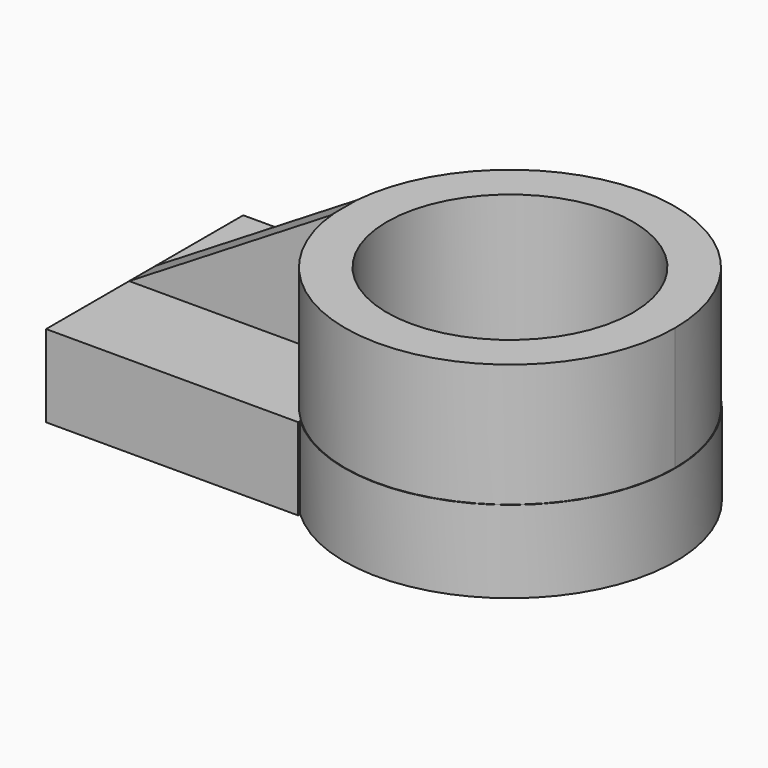
from build123d import *

# Parameters (mm, degrees)
F1_DEPTH = 25.4
F2_R     = 50.9875391609
F3_DEPTH = 38.1
F5_DEPTH = 38.1
F7_DEPTH = 25.4
F8_R     = 38.0488836494
F9_DEPTH = 63.5


with BuildPart() as f1:
    # F0 (on Top) → F1 (new body)
    with BuildSketch(Plane.XY):
        with BuildLine():
            Line((-60.883525759, 38.982976228), (-60.883525759, -37.2309312224))
            Line((-60.883525759, -37.2309312224), (17.0824285597, -37.2309312224))
            Line((17.0824285597, -37.2309312224), (17.0824285597, -36.4418395362))
            ThreePointArc((17.0824285597, -36.4418395362), (0.9326223834, 0.8760225028), (17.0824285597, 38.1938845418))
            Line((17.0824285597, 38.1938845418), (17.0824285597, 38.982976228))
            Line((17.0824285597, 38.982976228), (-60.883525759, 38.982976228))
        make_face()
        with BuildLine():
            Line((17.0824285597, 38.1938845418), (17.0824285597, -36.4418395362))
            ThreePointArc((17.0824285597, -36.4418395362), (72.4545517176, -46.1040347879), (103.313979079, 0.8760225028))
            ThreePointArc((103.313979079, 0.8760225028), (72.4545517176, 47.8560797934), (17.0824285597, 38.1938845418))
        make_face()
        with BuildLine():
            ThreePointArc((17.0824285597, 38.1938845418), (0.9326223834, 0.8760225028), (17.0824285597, -36.4418395362))
            Line((17.0824285597, -36.4418395362), (17.0824285597, 38.1938845418))
        make_face()
    extrude(amount=F1_DEPTH)

    # F2 (on face) → F3 (join)
    with BuildSketch(Plane.XY.offset(25.4)):
        with Locations((52.1233007312, 0.8760225028)):
            Circle(F2_R)
    extrude(amount=F3_DEPTH)

    # F4 (on face) → F5 (join)
    with BuildSketch(Plane.XY.offset(25.4)):
        with BuildLine():
            Line((1.311869915, 5.1101278514), (-60.883525759, 5.1101278514))
            Line((-60.883525759, 5.1101278514), (-60.883525759, -5.1101278514))
            Line((-60.883525759, -5.1101278514), (0, -5.1101278514))
            Line((0, -5.1101278514), (1.311869915, -5.1101278514))
            Line((1.311869915, -5.1101278514), (1.311869915, -3.3580828458))
            ThreePointArc((1.311869915, -3.3580828458), (1.1357615703, 0.8760225028), (1.311869915, 5.1101278514))
        make_face()
    extrude(amount=F5_DEPTH)

    # F6 (on face) → F7 (cut)
    with BuildSketch(Plane.XZ.offset(5.1101278514)):
        Polygon((-60.883525759, 63.5), (-60.883525759, 25.4), (1.311869915, 63.5), align=None)
    extrude(amount=-F7_DEPTH, mode=Mode.SUBTRACT)

    # F8 (on face) → F9 (cut)
    with BuildSketch(Plane.XY.offset(63.5)):
        with Locations((52.1233007312, 0.8760225028)):
            Circle(F8_R)
    extrude(amount=-F9_DEPTH, mode=Mode.SUBTRACT)


solid = f1.part
